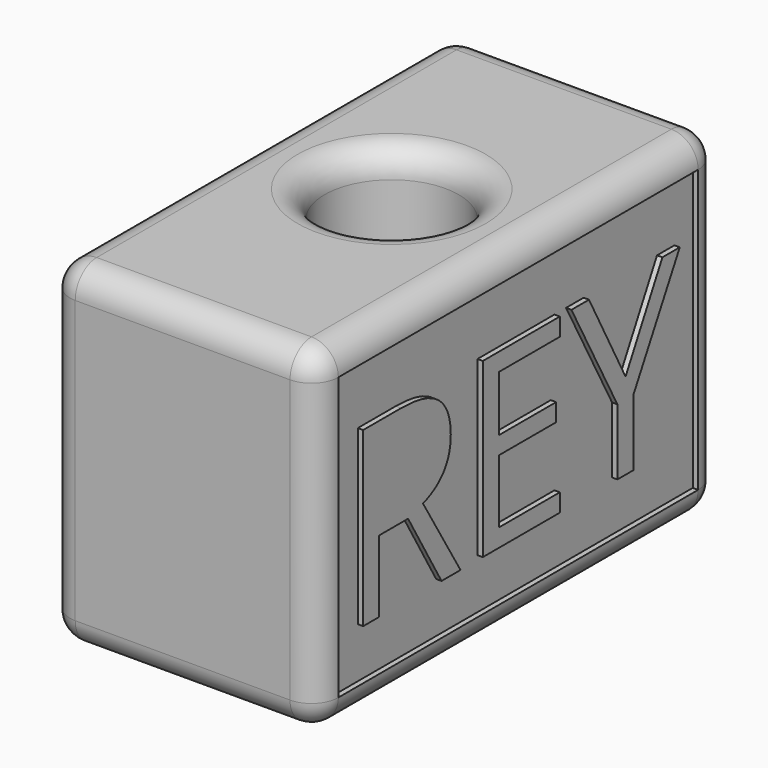
from build123d import *

# Parameters (mm, degrees)
F0_W     = 80
F0_H     = 100
F1_DEPTH = 150
F2_R     = 20
F3_DEPTH = 141.9
F4_R     = 8
F5_W     = 134
F5_H     = 84
F6_DEPTH = 1.6


with BuildPart() as f1:
    # F0 (on Front) → F1 (new body)
    with BuildSketch(Plane.XZ):
        Rectangle(F0_W, F0_H)
    extrude(amount=F1_DEPTH)

    # F2 (on face) → F3 (cut, symmetric)
    with BuildSketch(Plane.XY.offset(50)):
        with Locations((0, -72.1363547525)):
            Circle(F2_R)
    extrude(amount=F3_DEPTH, both=True, mode=Mode.SUBTRACT)

    # F4
    f4_edges = [f1.edges().sort_by_distance(p)[0] for p in [
        (40, -75, 50),
        (0, 0, 50),
        (0, -150, 50),
        (-40, -75, 50),
        (-20, -72.136355, 50),
        (0, -150, -50),
        (40, -150, 0),
        (-40, -150, 0),
        (40, -75, -50),
        (40, 0, 0),
        (-40, -75, -50),
        (0, 0, -50),
        (-20, -72.136355, -50),
        (-40, 0, 0),
    ]]
    fillet(f4_edges, radius=F4_R)

    # F5 (on face) → F6 (cut)
    with BuildSketch(Plane.YZ.offset(40)):
        with Locations((-75, 0)):
            Rectangle(F5_W, F5_H)
        with BuildLine():
            Line((-116.0339047565, -5.6421386253), (-126.7773912041, -5.6421386253))
            Line((-126.7773912041, -5.6421386253), (-126.7773912041, -27.0390193909))
            Line((-126.7773912041, -27.0390193909), (-132.7572563023, -27.0390193909))
            Line((-132.7572563023, -27.0390193909), (-132.7572563023, 24.4148480924))
            Line((-132.7572563023, 24.4148480924), (-118.6465765131, 24.4148480924))
            add(Edge.make_bspline(
                [(-118.6465765131, 24.4148480924), (-109.1756413953, 24.4148480924), (-104.654142644, 20.7886398784)],
                knots=[0, 0, 0, 1, 1, 1], degree=2))
            add(Edge.make_bspline(
                [(-104.654142644, 20.7886398784), (-100.1326438927, 17.1624316645), (-100.1326438927, 9.876230688)],
                knots=[0, 0, 0, 1, 1, 1], degree=2))
            add(Edge.make_bspline(
                [(-100.1326438927, 9.876230688), (-100.1326438927, -0.3267029824), (-110.4819772736, -3.9191266478)],
                knots=[0, 0, 0, 1, 1, 1], degree=2))
            Line((-110.4819772736, -3.9191266478), (-96.5064356787, -27.0390193909))
            Line((-96.5064356787, -27.0390193909), (-103.5786678476, -27.0390193909))
            Line((-103.5786678476, -27.0390193909), (-116.0339047565, -5.6421386253))
        make_face(mode=Mode.SUBTRACT)
        Polygon((-59.5236165027, -21.6897991995), (-59.5236165027, -27.0390193909), (-88.2066982449, -27.0390193909), (-88.2066982449, 24.4148480924), (-59.5236165027, 24.4148480924), (-59.5236165027, 19.0994124496), (-82.2268331467, 19.0994124496), (-82.2268331467, 2.5224606143), (-60.8975214782, 2.5224606143), (-60.8975214782, -2.75919048), (-82.2268331467, -2.75919048), (-82.2268331467, -21.6897991995), align=None, mode=Mode.SUBTRACT)
        Polygon((-48.656253377, 24.4148480924), (-35.0298187841, -1.3177164074), (-21.3132920617, 24.4148480924), (-14.837920251, 24.4148480924), (-32.0117324445, -7.0836126979), (-32.0117324445, -27.0390193909), (-38.0591666399, -27.0390193909), (-38.0591666399, -7.3651506027), (-55.1991942848, 24.4148480924), align=None, mode=Mode.SUBTRACT)
    extrude(amount=-F6_DEPTH, mode=Mode.SUBTRACT)


solid = f1.part
